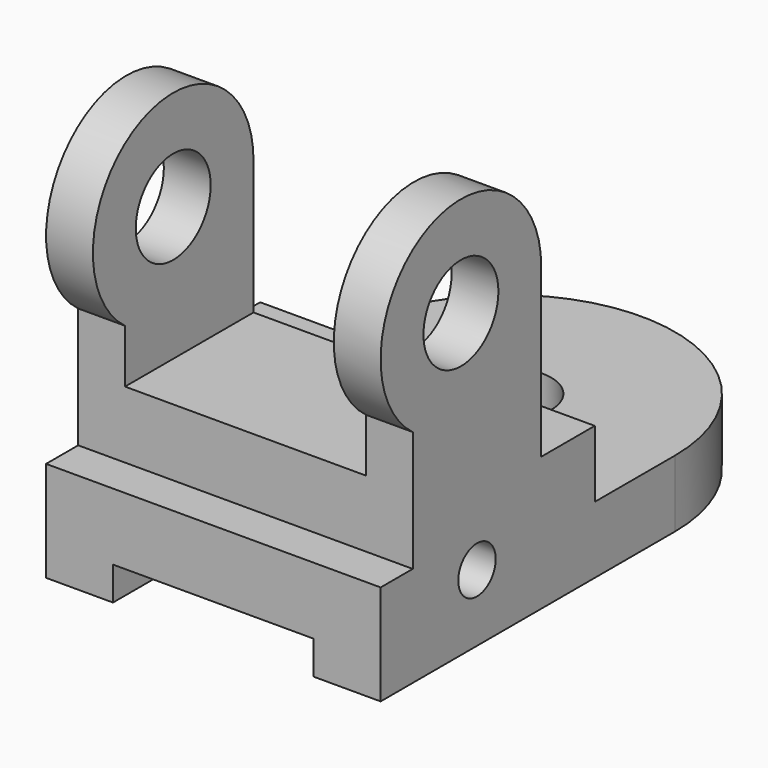
from build123d import *

# Parameters (mm, degrees)
F0_R      = 3.5
F0_R_2    = 7
F1_DEPTH  = 25
F3_DEPTH  = 10
F5_D      = 13
F6_W      = 36
F6_H      = 15
F6_H_2    = 20
F7_DEPTH  = 30.001
F8_W      = 30
F8_H      = 5
F9_DEPTH  = 80.001
F10_W     = 50
F10_H     = 10
F11_DEPTH = 10
F13_DEPTH = 10


with BuildPart() as f1:
    # F0 (on Right) → F1 (new body, symmetric)
    with BuildSketch(Plane.YZ):
        with BuildLine():
            Line((0, 15), (0, 0))
            Line((0, 0), (55, 0))
            Line((55, 0), (55, 10))
            Line((55, 10), (30, 10))
            Line((30, 10), (30, 45))
            ThreePointArc((30, 45), (8.291796, 58.416408), (6, 33))
            Line((6, 33), (6, 15))
            Line((6, 15), (0, 15))
        make_face()
        with Locations((18, 10)):
            Circle(F0_R, mode=Mode.SUBTRACT)
        with Locations((15, 45)):
            Circle(F0_R_2, mode=Mode.SUBTRACT)
    extrude(amount=F1_DEPTH, both=True)

    # F2 (on face) → F3 (join)
    with BuildSketch(Plane(origin=(0, 0, 0), x_dir=(1, 0, 0), z_dir=(0, 0, -1))):
        with BuildLine():
            Line((25, -55), (-25, -55))
            ThreePointArc((-25, -55), (0, -80), (25, -55))
        make_face()
    extrude(amount=-F3_DEPTH)

    # F5 (through all)
    with Locations(Plane.XY.offset(10)):
        with Locations((0, 55)):
            Hole(F5_D / 2)

    # F6 (on face) → F7 (cut, through all)
    with BuildSketch(Plane(origin=(0, 30, 0), x_dir=(-1, 0, 0), z_dir=(0, 1, 0))):
        with Locations((0, 52.5)):
            Rectangle(F6_W, F6_H)
        with Locations((0, 35)):
            Rectangle(F6_W, F6_H_2)
    extrude(amount=-F7_DEPTH, mode=Mode.SUBTRACT)

    # F8 (on face) → F9 (cut, through all)
    with BuildSketch(Plane.XZ):
        with Locations((0, 2.5)):
            Rectangle(F8_W, F8_H)
        with Locations((0, -2.5)):
            Rectangle(F8_W, F8_H)
    extrude(amount=-F9_DEPTH, mode=Mode.SUBTRACT)

    # F10 (on face) → F11 (join)
    with BuildSketch(Plane(origin=(0, 30, 0), x_dir=(-1, 0, 0), z_dir=(0, 1, 0))):
        with Locations((0, 15)):
            Rectangle(F10_W, F10_H)
    extrude(amount=F11_DEPTH)

    # F12 (on face) → F13 (cut)
    with BuildSketch(Plane(origin=(0, 40, 0), x_dir=(-1, 0, 0), z_dir=(0, 1, 0))):
        with BuildLine():
            ThreePointArc((0, 10), (7.071068, 12.928932), (10, 20))
            Line((10, 20), (-10, 20))
            ThreePointArc((-10, 20), (-7.071068, 12.928932), (0, 10))
        make_face()
    extrude(amount=-F13_DEPTH, mode=Mode.SUBTRACT)


solid = f1.part
